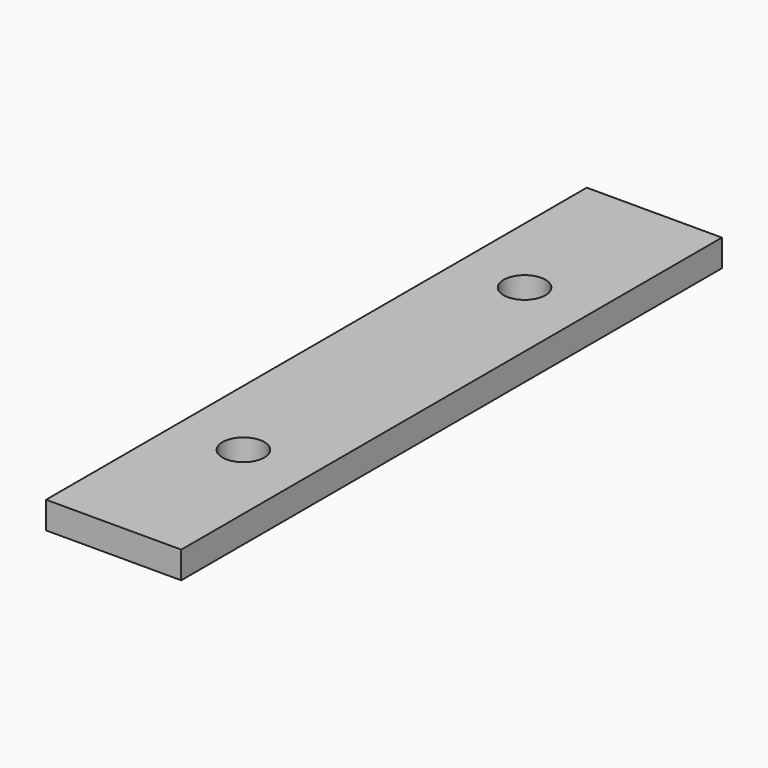
from build123d import *

# Parameters (mm, degrees)
CYLINDER003_R     = 1.55
CYLINDER003_DEPTH = 10
CYLINDER002_R     = 1.55
CYLINDER002_DEPTH = 10
BOX001_W          = 10
BOX001_H          = 50
BOX001_DEPTH      = 2


with BuildPart() as cylinder003:
    # Cylinder003 → Cylinder003 (new body)
    with BuildSketch(Plane(origin=(-5, 38, 14), x_dir=(1, 0, 0), z_dir=(0, 0, 1))):
        Circle(CYLINDER003_R)
    extrude(amount=CYLINDER003_DEPTH)


with BuildPart() as cylinder002:
    # Cylinder002 → Cylinder002 (new body)
    with BuildSketch(Plane(origin=(-5, 12, 14), x_dir=(1, 0, 0), z_dir=(0, 0, 1))):
        Circle(CYLINDER002_R)
    extrude(amount=CYLINDER002_DEPTH)


with BuildPart() as lip006:
    # Box001 → Box001 (new body)
    with BuildSketch(Plane(origin=(-10, 0, 18), x_dir=(1, 0, 0), z_dir=(0, 0, 1))):
        with Locations((5, 25)):
            Rectangle(BOX001_W, BOX001_H)
    extrude(amount=BOX001_DEPTH)

    # Cut002: cut Cylinder002
    add(cylinder002.part, mode=Mode.SUBTRACT)

    # Cut003: cut Cylinder003
    add(cylinder003.part, mode=Mode.SUBTRACT)


solid = lip006.part
